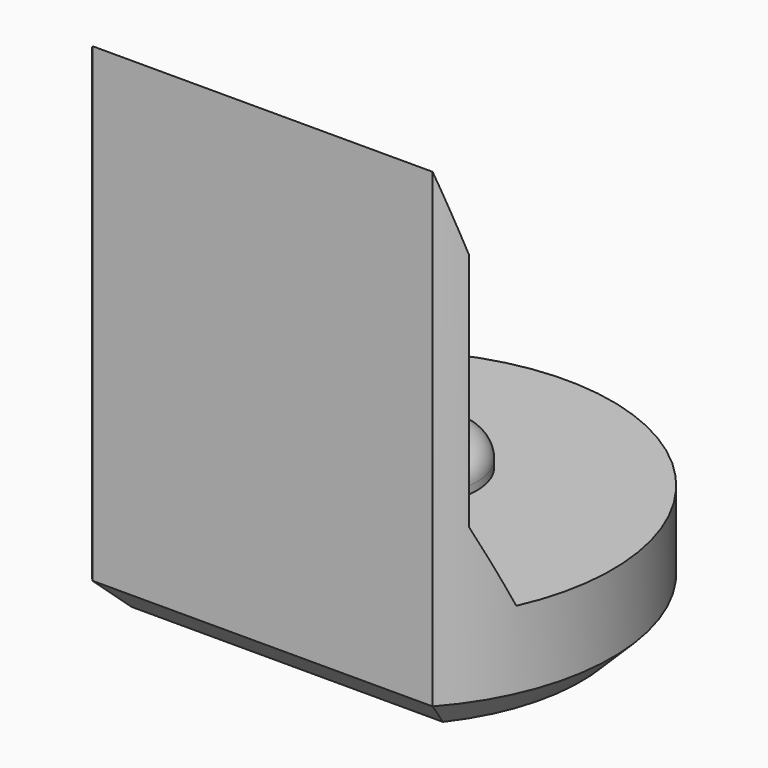
from build123d import *

# Parameters (mm, degrees)
PAD008_DEPTH         = 6.5
POCKET007_DEPTH      = 2.951
POCKET007_DEPTH_BACK = 2.951
SKETCH023_R          = 0.8
PAD009_DEPTH         = 0.4
FILLET001_R          = 0.3
CHAMFER007_SIZE      = 0.4


with BuildPart() as part:
    # Sketch022 → Pad008 (new body)
    with BuildSketch(Plane.XY):
        with BuildLine():
            ThreePointArc((2.2, -1.9653244007), (0, 2.95), (-2.2, -1.9653244007))
            Line((-2.2, -1.9653244007), (2.2, -1.9653244007))
        make_face()
    extrude(amount=PAD008_DEPTH)

    # Sketch024 → Pocket007 (cut, two sides)
    with BuildSketch(Plane.YZ) as pocket007_sk:
        Polygon((-1.97, 6.5), (-1.67, 5.5), (-1.67, 2.4), (-1.22, 1.4), (4, 1.4), (4, 6.5), align=None)
    extrude(amount=-POCKET007_DEPTH, mode=Mode.SUBTRACT)
    extrude(pocket007_sk.sketch, amount=POCKET007_DEPTH_BACK, mode=Mode.SUBTRACT)

    # Sketch023 (on Face7 of Pocket007) → Pad009 (join)
    with BuildSketch(Plane.XY.offset(1.4)):
        with Locations((0, 0.5)):
            Circle(SKETCH023_R)
    extrude(amount=PAD009_DEPTH)

    # Fillet001
    fillet001_edges = [part.edges().sort_by_distance(p)[0] for p in [
        (-0.8, 0.5, 1.8),
    ]]
    fillet(fillet001_edges, radius=FILLET001_R)

    # Chamfer007
    chamfer007_edges = [part.edges().sort_by_distance(p)[0] for p in [
        (0, 2.95, 0),
        (0, -1.965324, 0),
    ]]
    chamfer(chamfer007_edges, length=CHAMFER007_SIZE)


with BuildPart() as part_1:
    # Body084 placement: moved
    add(part.part.moved(Location((0, 24, 0))))


solid = part_1.part
